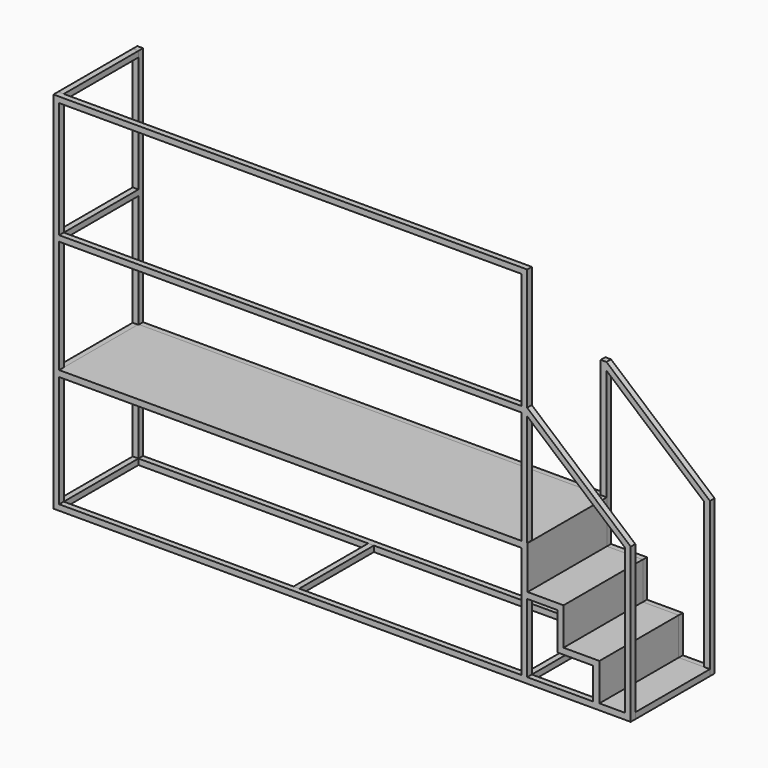
from build123d import *

# Parameters (mm, degrees)
F0_W      = 3220
F0_H      = 780
F0_H_2    = 1640
F1_DEPTH  = 40
F2_W      = 40
F2_H      = 40
F3_DEPTH  = 650
F6_W      = 3220
F6_H      = 3
F6_W_2    = 40
F7_DEPTH  = 690
F8_W      = 40
F8_H      = 807.6308862525
F9_DEPTH  = 40
F10_W     = 3220
F10_H     = 40
F11_DEPTH = 40
F12_W     = 664.210498333
F12_H     = 40
F13_DEPTH = 40


with BuildPart() as f1:
    # F0 (on Front) → F1 (new body)
    with BuildSketch(Plane.XZ):
        Polygon((0, -820), (3300, -820), (4020.8986186981, -820), (4020.8986186981, 254.5713696399), (3300, 872.3691137475), (3300, 1720), (0, 1720), (0, 40), (0, 0), align=None)
        with Locations((1650, -390)):
            Rectangle(F0_W, F0_H, mode=Mode.SUBTRACT)
        Polygon((3760, -780), (3300, -780), (3300, -300), (3510, -300), (3510, -560), (3760, -560), align=None, mode=Mode.SUBTRACT)
        Polygon((3300, 0), (3300, 40), (3300, 819.6901679039), (3980.8986186981, 236.1717373133), (3980.8986186981, -780), (3800, -780), (3800, -520), (3550, -520), (3550, -260), (3300, -260), align=None, mode=Mode.SUBTRACT)
        with Locations((1650, 860)):
            Rectangle(F0_W, F0_H_2, mode=Mode.SUBTRACT)
    extrude(amount=F1_DEPTH)


with BuildPart() as f3:
    # F2 (on face) → F3 (new body)
    with BuildSketch(Plane(origin=(0, 0, 0), x_dir=(-1, 0, 0), z_dir=(0, 1, 0))):
        with Locations((-20, 1700)):
            Rectangle(F2_W, F2_H)
    extrude(amount=F3_DEPTH)


with BuildPart() as f3b:
    # F2 (on face) → F3, piece 2 (new body)
    with BuildSketch(Plane(origin=(0, 0, 0), x_dir=(-1, 0, 0), z_dir=(0, 1, 0))):
        with Locations((-20, 20)):
            Rectangle(F2_W, F2_H)
    extrude(amount=F3_DEPTH)


with BuildPart() as f3c:
    # F2 (on face) → F3, piece 3 (new body)
    with BuildSketch(Plane(origin=(0, 0, 0), x_dir=(-1, 0, 0), z_dir=(0, 1, 0))):
        with Locations((-20, -800)):
            Rectangle(F2_W, F2_H)
    extrude(amount=F3_DEPTH)


with BuildPart() as f3d:
    # F2 (on face) → F3, piece 4 (new body)
    with BuildSketch(Plane(origin=(0, 0, 0), x_dir=(-1, 0, 0), z_dir=(0, 1, 0))):
        with Locations((-1660, -800)):
            Rectangle(F2_W, F2_H)
    extrude(amount=F3_DEPTH)


with BuildPart() as f3e:
    # F2 (on face) → F3, piece 5 (new body)
    with BuildSketch(Plane(origin=(0, 0, 0), x_dir=(-1, 0, 0), z_dir=(0, 1, 0))):
        with Locations((-1660, 20)):
            Rectangle(F2_W, F2_H)
    extrude(amount=F3_DEPTH)


with BuildPart() as f3f:
    # F2 (on face) → F3, piece 6 (new body)
    with BuildSketch(Plane(origin=(0, 0, 0), x_dir=(-1, 0, 0), z_dir=(0, 1, 0))):
        with Locations((-3280, 20)):
            Rectangle(F2_W, F2_H)
    extrude(amount=F3_DEPTH)


with BuildPart() as f3g:
    # F2 (on face) → F3, piece 7 (new body)
    with BuildSketch(Plane(origin=(0, 0, 0), x_dir=(-1, 0, 0), z_dir=(0, 1, 0))):
        with Locations((-3280, -800)):
            Rectangle(F2_W, F2_H)
    extrude(amount=F3_DEPTH)


with BuildPart() as f3h:
    # F2 (on face) → F3, piece 8 (new body)
    with BuildSketch(Plane(origin=(0, 0, 0), x_dir=(-1, 0, 0), z_dir=(0, 1, 0))):
        with Locations((-3280, -280)):
            Rectangle(F2_W, F2_H)
    extrude(amount=F3_DEPTH)


with BuildPart() as f3i:
    # F2 (on face) → F3, piece 9 (new body)
    with BuildSketch(Plane(origin=(0, 0, 0), x_dir=(-1, 0, 0), z_dir=(0, 1, 0))):
        with Locations((-3530, -280)):
            Rectangle(F2_W, F2_H)
    extrude(amount=F3_DEPTH)


with BuildPart() as f3j:
    # F2 (on face) → F3, piece 10 (new body)
    with BuildSketch(Plane(origin=(0, 0, 0), x_dir=(-1, 0, 0), z_dir=(0, 1, 0))):
        with Locations((-3780, -540)):
            Rectangle(F2_W, F2_H)
    extrude(amount=F3_DEPTH)


with BuildPart() as f3k:
    # F2 (on face) → F3, piece 11 (new body)
    with BuildSketch(Plane(origin=(0, 0, 0), x_dir=(-1, 0, 0), z_dir=(0, 1, 0))):
        with Locations((-3530, -540)):
            Rectangle(F2_W, F2_H)
    extrude(amount=F3_DEPTH)


with BuildPart() as f3l:
    # F2 (on face) → F3, piece 12 (new body)
    with BuildSketch(Plane(origin=(0, 0, 0), x_dir=(-1, 0, 0), z_dir=(0, 1, 0))):
        with Locations((-3780, -800)):
            Rectangle(F2_W, F2_H)
    extrude(amount=F3_DEPTH)


with BuildPart() as f3m:
    # F2 (on face) → F3, piece 13 (new body)
    with BuildSketch(Plane(origin=(0, 0, 0), x_dir=(-1, 0, 0), z_dir=(0, 1, 0))):
        with Locations((-4000.8986186981, -800)):
            Rectangle(F2_W, F2_H)
    extrude(amount=F3_DEPTH)


with BuildPart() as f5_1:
    # F5: instance of F1
    add(f1.part.mirror(Plane(origin=(2064.0426238639, 325, 241.2959418139), x_dir=(1, 0, 0), z_dir=(0, 1, 0))))

    # F8 (on face) → F9 (cut)
    with BuildSketch(Plane(origin=(0, 690, 0), x_dir=(-1, 0, 0), z_dir=(0, 1, 0))):
        Polygon((-40, 1720), (-3300, 1720), (-3300, 1680), (-3260, 1680), (-40, 1680), align=None)
        with Locations((-3280, 1276.1845568738)):
            Rectangle(F8_W, F8_H)
    extrude(amount=-F9_DEPTH, mode=Mode.SUBTRACT)


with BuildPart() as f7:
    # F6 (on face) → F7 (new body)
    with BuildSketch(Plane.XZ.offset(40)):
        with Locations((1650, 41.5)):
            Rectangle(F6_W, F6_H)
        with Locations((3280, 41.5)):
            Rectangle(F6_W_2, F6_H)
        Polygon((3300, 43), (3300, 40), (3300, -260), (3550, -260), (3550, -520), (3800, -520), (3800, -780), (3980.8986186981, -780), (3980.8986186981, -777), (3803, -777), (3803, -517), (3553, -517), (3553, -257), (3303, -257), (3303, 43), align=None)
        with Locations((4000.8986186981, -778.5)):
            Rectangle(F6_W_2, F6_H)
    extrude(amount=-F7_DEPTH)


with BuildPart() as f1_1:
    add(f1.part)

    # F10 (on face) → F11 (join)
    with BuildSketch(Plane.XZ.offset(40)):
        with Locations((1650, 850)):
            Rectangle(F10_W, F10_H)
    extrude(amount=-F11_DEPTH)

    add(f5_1.part)  # F13 merges F5_1
    # F12 (on face) → F13 (join)
    with BuildSketch(Plane(origin=(0, 0, 0), x_dir=(0, -1, 0), z_dir=(-1, 0, 0))):
        with Locations((-332.1052491665, 850)):
            Rectangle(F12_W, F12_H)
    extrude(amount=-F13_DEPTH)


solid = Compound([f3.part, f3b.part, f3c.part, f3d.part, f3e.part, f3f.part, f3g.part, f3h.part, f3i.part, f3j.part, f3k.part, f3l.part, f3m.part, f7.part, f1_1.part])
